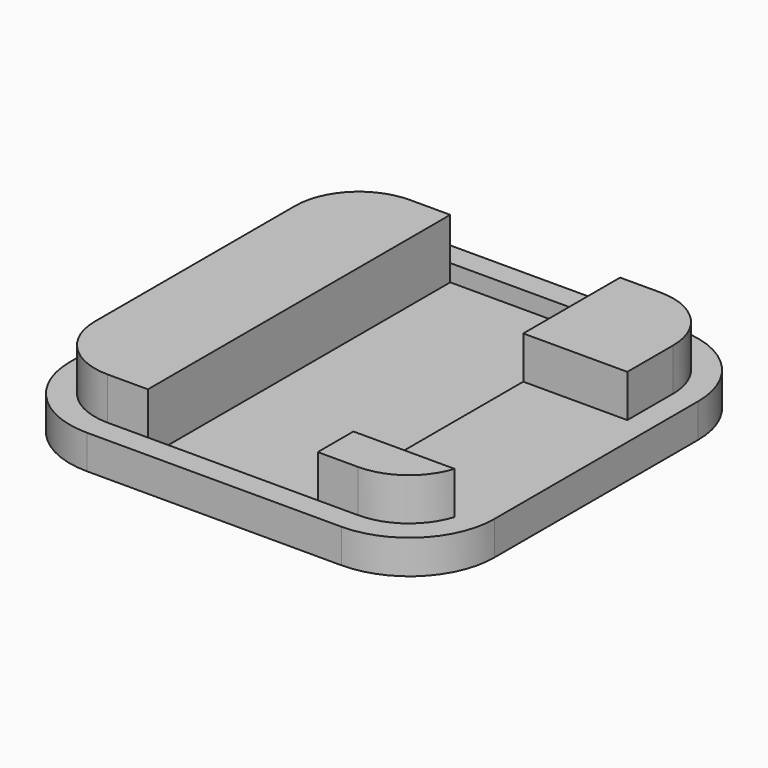
from build123d import *

# Parameters (mm, degrees)
F1_DEPTH = 4
F3_DEPTH = 5
F4_W     = 20
F4_H     = 44.5
F5_DEPTH = 7
F6_W     = 25
F6_H     = 5
F7_DEPTH = 13


with BuildPart() as f1:
    # F0 (on Top) → F1 (new body)
    with BuildSketch(Plane.XY):
        with BuildLine():
            ThreePointArc((25, 15), (22.071068, 22.071068), (15, 25))
            Line((15, 25), (-15, 25))
            ThreePointArc((-15, 25), (-22.071068, 22.071068), (-25, 15))
            Line((-25, 15), (-25, -15))
            ThreePointArc((-25, -15), (-22.071068, -22.071068), (-15, -25))
            Line((-15, -25), (15, -25))
            ThreePointArc((15, -25), (22.071068, -22.071068), (25, -15))
            Line((25, -15), (25, 15))
        make_face()
    extrude(amount=F1_DEPTH)

    # F2 (on face) → F3 (join)
    with BuildSketch(Plane.XY.offset(4)):
        with BuildLine():
            ThreePointArc((22.25, 14.75), (20.053301, 20.053301), (14.75, 22.25))
            Line((14.75, 22.25), (-14.75, 22.25))
            ThreePointArc((-14.75, 22.25), (-20.053301, 20.053301), (-22.25, 14.75))
            Line((-22.25, 14.75), (-22.25, -14.75))
            ThreePointArc((-22.25, -14.75), (-20.053301, -20.053301), (-14.75, -22.25))
            Line((-14.75, -22.25), (14.75, -22.25))
            ThreePointArc((14.75, -22.25), (20.053301, -20.053301), (22.25, -14.75))
            Line((22.25, -14.75), (22.25, 14.75))
        make_face()
    extrude(amount=F3_DEPTH)

    # F4 (on face) → F5 (cut)
    with BuildSketch(Plane.XY.offset(9)):
        Rectangle(F4_W, F4_H)
    extrude(amount=-F5_DEPTH, mode=Mode.SUBTRACT)

    # F6 (on face) → F7 (cut)
    with BuildSketch(Plane.YZ.offset(22.25)):
        with Locations((-4.5, 6.5)):
            Rectangle(F6_W, F6_H)
    extrude(amount=-F7_DEPTH, mode=Mode.SUBTRACT)


solid = f1.part
